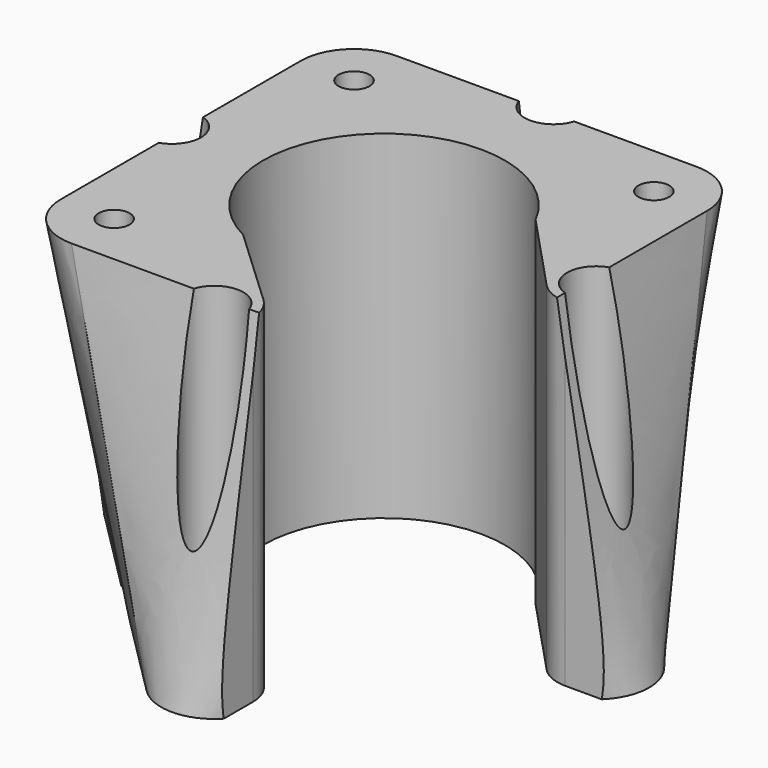
from build123d import *

# Parameters (mm, degrees)
SKETCH002_R     = 1.6
SKETCH002_R_2   = 12.5
POCKET_DEPTH    = 35.001
SKETCH003_R     = 3
POCKET001_DEPTH = 31.001
SKETCH004_R     = 3
POCKET002_DEPTH = 31.001
POCKET003_DEPTH = 35.001


with BuildPart() as part:
    # Sketch → AdditiveLoft section 0
    with BuildSketch(Plane.XY.offset(35)):
        with BuildLine():
            Line((-15.5, -21), (15.5, -21))
            ThreePointArc((15.5, -21), (19.389087, -19.389087), (21, -15.5))
            Line((21, -15.5), (21, 15.5))
            ThreePointArc((21, 15.5), (19.389087, 19.389087), (15.5, 21))
            Line((15.5, 21), (-15.5, 21))
            ThreePointArc((-15.5, 21), (-19.389087, 19.389087), (-21, 15.5))
            Line((-21, 15.5), (-21, -15.5))
            ThreePointArc((-21, -15.5), (-19.389087, -19.389087), (-15.5, -21))
        make_face()
    # Sketch001 → AdditiveLoft section 1
    with BuildSketch(Plane.XY):
        with BuildLine():
            Line((3.889087, 25.809398), (25.809398, 3.889087))
            ThreePointArc((25.809398, -3.889087), (27.42031, 0), (25.809398, 3.889087))
            Line((25.809398, -3.889087), (3.889087, -25.809398))
            ThreePointArc((-3.889087, -25.809398), (0, -27.42031), (3.889087, -25.809398))
            Line((-3.889087, -25.809398), (-25.809398, -3.889087))
            ThreePointArc((-25.809398, 3.889087), (-27.42031, 0), (-25.809398, -3.889087))
            Line((-25.809398, 3.889087), (-3.889087, 25.809398))
            ThreePointArc((3.889087, 25.809398), (0, 27.42031), (-3.889087, 25.809398))
        make_face()
    loft()

    # Sketch002 → Pocket (cut, through all)
    with BuildSketch(Plane.XY):
        with Locations((-15.5, -15.5)):
            Circle(SKETCH002_R)
        with Locations((-15.5, 15.5)):
            Circle(SKETCH002_R)
        with Locations((15.5, 15.5)):
            Circle(SKETCH002_R)
        with Locations((15.5, -15.5)):
            Circle(SKETCH002_R)
        Circle(SKETCH002_R_2)
        with Locations((0, 21.92031)):
            Circle(SKETCH002_R)
        with Locations((21.92031, 0)):
            Circle(SKETCH002_R)
        with Locations((0, -21.92031)):
            Circle(SKETCH002_R)
        with Locations((-21.92031, 0)):
            Circle(SKETCH002_R)
    extrude(amount=POCKET_DEPTH, mode=Mode.SUBTRACT)

    # Sketch003 → Pocket001 (cut, through all)
    with BuildSketch(Plane.XY.offset(31)):
        with Locations((-15.5, 15.5)):
            Circle(SKETCH003_R)
        with Locations((15.5, 15.5)):
            Circle(SKETCH003_R)
        with Locations((15.5, -15.5)):
            Circle(SKETCH003_R)
        with Locations((-15.5, -15.5)):
            Circle(SKETCH003_R)
    extrude(amount=-POCKET001_DEPTH, mode=Mode.SUBTRACT)

    # Sketch004 → Pocket002 (cut, through all)
    with BuildSketch(Plane.XY.offset(4)):
        with Locations((-21.92031, 0)):
            Circle(SKETCH004_R)
        with Locations((0, 21.92031)):
            Circle(SKETCH004_R)
        with Locations((21.92031, 0)):
            Circle(SKETCH004_R)
        with Locations((0, -21.92031)):
            Circle(SKETCH004_R)
    extrude(amount=POCKET002_DEPTH, mode=Mode.SUBTRACT)

    # Sketch005 → Pocket003 (cut, through all)
    with BuildSketch(Plane.XY):
        with BuildLine():
            ThreePointArc((4, -21.92031), (3.669917, -20.329175), (2.734145, -19.000644))
            Line((2.734145, -19.000644), (-8.202434, -8.759))
            ThreePointArc((8.759, 8.202434), (-8.485281, 8.485281), (-8.202434, -8.759))
            Line((19.000644, -2.734145), (8.759, 8.202434))
            ThreePointArc((19.000644, -2.734145), (20.329175, -3.669917), (21.92031, -4))
            Line((29.642136, -4), (21.92031, -4))
            Line((29.642136, -29.642136), (29.642136, -4))
            Line((4, -29.642136), (29.642136, -29.642136))
            Line((4, -21.92031), (4, -29.642136))
        make_face()
    extrude(amount=POCKET003_DEPTH, mode=Mode.SUBTRACT)


solid = part.part
